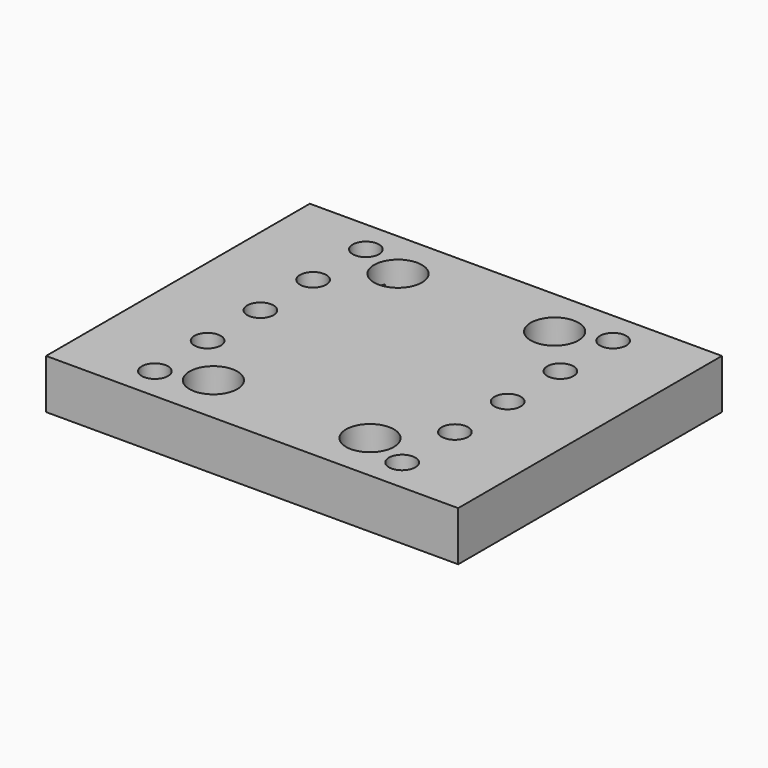
from build123d import *

# Parameters (mm, degrees)
F0_W     = 50
F0_H     = 40
F1_DEPTH = 6
F2_R     = 2.9
F3_DEPTH = 3.5
F4_R     = 1.6
F5_DEPTH = 25
F6_R     = 1.6
F7_DEPTH = 25
F9_DEPTH = 3.5


with BuildPart() as f1:
    # F0 (on Top) → F1 (new body)
    with BuildSketch(Plane.XY):
        Rectangle(F0_W, F0_H)
    extrude(amount=F1_DEPTH)

    # F2 (on face) → F3 (cut)
    with BuildSketch(Plane.XY.offset(6)):
        with Locations((-9.5, 14)):
            Circle(F2_R)
        with Locations((-9.5, -14)):
            Circle(F2_R)
        with Locations((9.5, 14)):
            Circle(F2_R)
        with Locations((9.5, -14)):
            Circle(F2_R)
    extrude(amount=-F3_DEPTH, mode=Mode.SUBTRACT)

    # F4 (on face) → F5 (cut)
    with BuildSketch(Plane.XY.offset(2.5)):
        with Locations((-9.5, 14)):
            Circle(F4_R)
        with Locations((-9.5, -14)):
            Circle(F4_R)
        with Locations((9.5, 14)):
            Circle(F4_R)
        with Locations((9.5, -14)):
            Circle(F4_R)
    extrude(amount=-F5_DEPTH, mode=Mode.SUBTRACT)

    # F6 (on face) → F7 (cut)
    with BuildSketch(Plane.XY.offset(6)):
        with Locations((-15, 0)):
            Circle(F6_R)
        with Locations((-15, 8)):
            Circle(F6_R)
        with Locations((-15, -8)):
            Circle(F6_R)
        with Locations((15, 0)):
            Circle(F6_R)
        with Locations((15, 8)):
            Circle(F6_R)
        with Locations((15, -8)):
            Circle(F6_R)
        with Locations((-15, -16)):
            Circle(F6_R)
        with Locations((15, 16)):
            Circle(F6_R)
        with Locations((-15, 16)):
            Circle(F6_R)
        with Locations((15, -16)):
            Circle(F6_R)
    extrude(amount=-F7_DEPTH, mode=Mode.SUBTRACT)

    # F8 (on face) → F9 (cut)
    with BuildSketch(Plane(origin=(0, 0, 0), x_dir=(1, 0, 0), z_dir=(0, 0, -1))):
        Polygon((-12.1, -1.674316), (-12.1, 1.674316), (-15, 3.348632), (-17.9, 1.674316), (-17.9, -1.674316), (-15, -3.348632), align=None)
        Polygon((-11.686842, 8.486128), (-13.76442, 11.112343), (-17.077578, 10.626215), (-18.313158, 7.513872), (-16.23558, 4.887657), (-12.922422, 5.373785), align=None)
        Polygon((-11.701039, -7.425379), (-13.848156, -4.855705), (-17.147117, -5.430327), (-18.298961, -8.574621), (-16.151844, -11.144295), (-12.852883, -10.569673), align=None)
        Polygon((17.9, -1.674316), (17.9, 1.674316), (15, 3.348632), (12.1, 1.674316), (12.1, -1.674316), (15, -3.348632), align=None)
        Polygon((18.313158, 8.486128), (16.23558, 11.112343), (12.922422, 10.626215), (11.686842, 7.513872), (13.76442, 4.887657), (17.077578, 5.373785), align=None)
        Polygon((18.298961, -7.425379), (16.151844, -4.855705), (12.852883, -5.430327), (11.701039, -8.574621), (13.848156, -11.144295), (17.147117, -10.569673), align=None)
        Polygon((-12.03478, 17.555894), (-14.864834, 19.345902), (-17.830053, 17.790009), (-17.96522, 14.444106), (-15.135166, 12.654098), (-12.169947, 14.209991), align=None)
        Polygon((-17.9, -14.325684), (-17.9, -17.674316), (-15, -19.348632), (-12.1, -17.674316), (-12.1, -14.325684), (-15, -12.651368), align=None)
        Polygon((18.144295, 14.848156), (17.569673, 18.147117), (14.425379, 19.298961), (11.855705, 17.151844), (12.430327, 13.852883), (15.574621, 12.701039), align=None)
        Polygon((18.144295, -17.151844), (17.569673, -13.852883), (14.425379, -12.701039), (11.855705, -14.848156), (12.430327, -18.147117), (15.574621, -19.298961), align=None)
    extrude(amount=-F9_DEPTH, mode=Mode.SUBTRACT)


solid = f1.part
